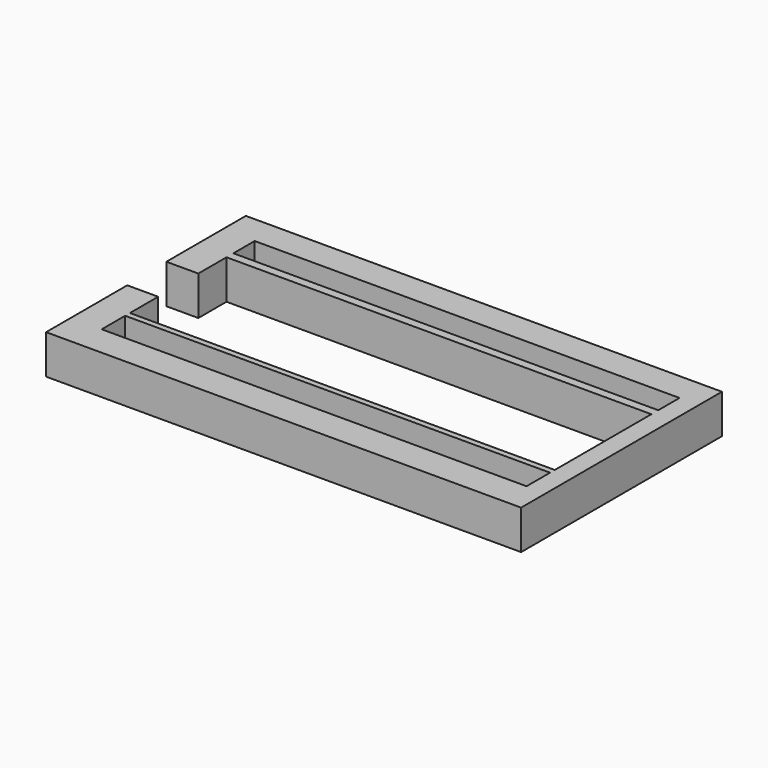
from build123d import *

# Parameters (mm, degrees)
F1_DEPTH = 25.4
F0_W     = 275.4045277834
F0_H     = 3.8495110348
F0_H_2   = 5.6006647646
F2_DEPTH = 25.4


with BuildPart() as f1:
    # F0 (on Top) → F1 (new body)
    with BuildSketch(Plane.XY):
        Polygon((-132.4022114277, -66.4804950356), (-152.4340957403, -66.4804950356), (-152.4340957403, -86.5142270923), (155.4969698191, -86.5142270923), (155.4969698191, -66.4804950356), (143.0023163557, -66.4804950356), align=None)
    extrude(amount=F1_DEPTH)

    # F0 (on Top) → F2 (join)
    with BuildSketch(Plane.XY):
        Polygon((-152.4340957403, -20.7428168505), (-152.4340957403, -66.4804950356), (-132.4022114277, -66.4804950356), (-132.4022114277, -61.8479698896), (-132.4022114277, -51.5716820955), (-132.4022114277, -47.4611669779), (-132.4022114277, -43.6116559431), (-132.4022114277, -20.7428168505), align=None)
        Polygon((-132.4022114277, -66.4804950356), (-152.4340957403, -66.4804950356), (-152.4340957403, -86.5142270923), (155.4969698191, -86.5142270923), (155.4969698191, -66.4804950356), (143.0023163557, -66.4804950356), align=None)
        Polygon((143.0023163557, -61.8479698896), (143.0023163557, -66.4804950356), (155.4969698191, -66.4804950356), (155.4969698191, 57.4595704675), (143.0023163557, 57.4595704675), (143.0023163557, 40.2298308909), (143.0023163557, 34.6291661263), (143.0023163557, -43.6116559431), (143.0023163557, -47.4611669779), (143.0023163557, -51.5716820955), align=None)
        with Locations((5.300052464, -45.5364114605)):
            Rectangle(F0_W, F0_H)
        Polygon((143.0023163557, 57.4595704675), (155.4969698191, 57.4595704675), (155.4969698191, 76.1948078871), (-153.1179100275, 76.1948078871), (-153.1179100275, 57.4595704675), (-132.4022114277, 57.4595704675), align=None)
        with Locations((5.300052464, 37.4294985086)):
            Rectangle(F0_W, F0_H_2)
        Polygon((-132.4022114277, 40.2298308909), (-132.4022114277, 57.4595704675), (-153.1179100275, 57.4595704675), (-153.1179100275, 37.8320254385), (-153.1179100275, 11.798761785), (-132.4022114277, 11.798761785), (-132.4022114277, 34.6291661263), align=None)
    extrude(amount=F2_DEPTH)


solid = f1.part
